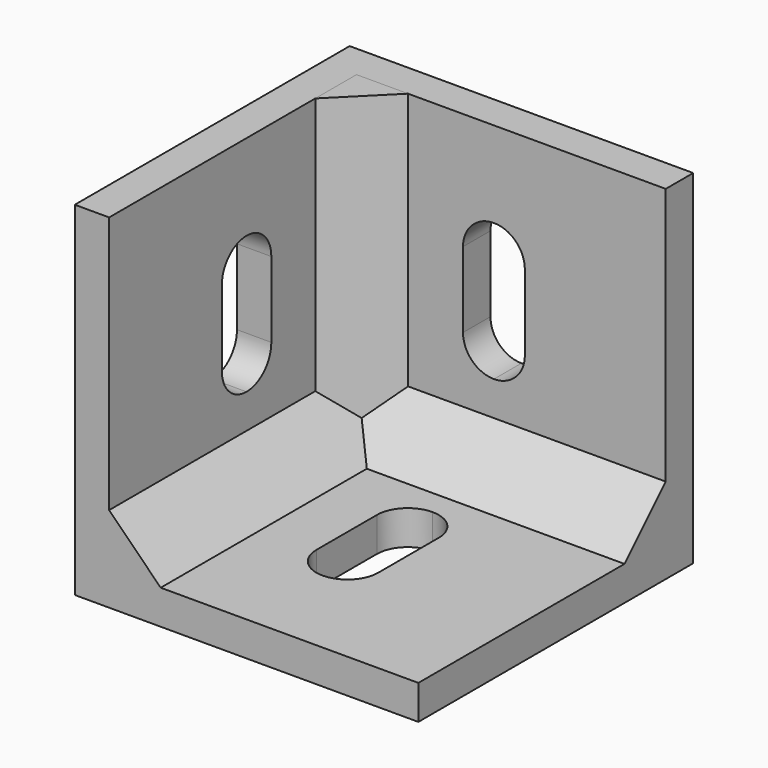
from build123d import *

# Parameters (mm, degrees)
F0_W      = 20
F0_H      = 20
F1_DEPTH  = 2
F3_DEPTH  = 18
F7_DEPTH  = 2.001
F8_DEPTH  = 2.001
F9_DEPTH  = 2.001
F11_DEPTH = 18


with BuildPart() as f1:
    # F0 (on Top) → F1 (new body)
    with BuildSketch(Plane.XY):
        Rectangle(F0_W, F0_H)
    extrude(amount=F1_DEPTH)

    # F2 (on face) → F3 (join)
    with BuildSketch(Plane.XY.offset(2)):
        Polygon((-10, -10), (-8, -10), (-8, 8), (10, 8), (10, 10), (-10, 10), align=None)
    extrude(amount=F3_DEPTH)

    # F5 (on face) → F7 (cut, through all)
    with BuildSketch(Plane.YZ.offset(-8)):
        with BuildLine():
            ThreePointArc((0, 7), (1.2727922061, 7.5272077939), (1.8, 8.8))
            Line((1.8, 8.8), (1.8, 13.2))
            ThreePointArc((1.8, 13.2), (1.2727922061, 14.4727922061), (0, 15))
            ThreePointArc((0, 15), (-1.2727922061, 14.4727922061), (-1.8, 13.2))
            Line((-1.8, 13.2), (-1.8, 8.8))
            ThreePointArc((-1.8, 8.8), (-1.2727922061, 7.5272077939), (0, 7))
        make_face()
    extrude(amount=-F7_DEPTH, mode=Mode.SUBTRACT)

    # F6 (on face) → F8 (cut, through all)
    with BuildSketch(Plane.XZ.offset(-8)):
        with BuildLine():
            ThreePointArc((0, 7), (1.2727922061, 7.5272077939), (1.8, 8.8))
            Line((1.8, 8.8), (1.8, 13.2))
            ThreePointArc((1.8, 13.2), (1.2727922061, 14.4727922061), (0, 15))
            ThreePointArc((0, 15), (-1.2727922061, 14.4727922061), (-1.8, 13.2))
            Line((-1.8, 13.2), (-1.8, 8.8))
            ThreePointArc((-1.8, 8.8), (-1.2727922061, 7.5272077939), (0, 7))
        make_face()
    extrude(amount=-F8_DEPTH, mode=Mode.SUBTRACT)

    # F4 (on face) → F9 (cut, through all)
    with BuildSketch(Plane.XY.offset(2)):
        with BuildLine():
            ThreePointArc((0, -4.4674180151), (1.2727922061, -3.9402102213), (1.8, -2.6674180151))
            Line((1.8, -2.6674180151), (1.8, 1.7325819849))
            ThreePointArc((1.8, 1.7325819849), (1.2727922061, 3.005374191), (0, 3.5325819849))
            ThreePointArc((0, 3.5325819849), (-1.2727922061, 3.005374191), (-1.8, 1.7325819849))
            Line((-1.8, 1.7325819849), (-1.8, -2.6674180151))
            ThreePointArc((-1.8, -2.6674180151), (-1.2727922061, -3.9402102213), (0, -4.4674180151))
        make_face()
    extrude(amount=-F9_DEPTH, mode=Mode.SUBTRACT)

    # F10 (on face) → F11 (join, through all)
    with BuildSketch(Plane.YZ.offset(10)):
        Polygon((5, 2), (8, 2), (8, 5), align=None)
    extrude(amount=-F11_DEPTH)

    # F12 (on face) → F13 (join, up to the next surface of F1)
    with BuildSketch(Plane.XZ.offset(10)):
        Polygon((-8, 5), (-8, 2), (-5, 2), align=None)
    extrude(until=Until.NEXT, dir=(0, 1, 0))


with BuildPart() as f15:
    # F14 (on face) → F15 (new body, up to the next surface of F1)
    with BuildSketch(Plane.XY.offset(20)):
        Polygon((-5, 8), (-8, 8), (-8, 5), align=None)
    extrude(until=Until.NEXT, target=f1.part, dir=(0, 0, -1))


solid = Compound([f1.part, f15.part])
